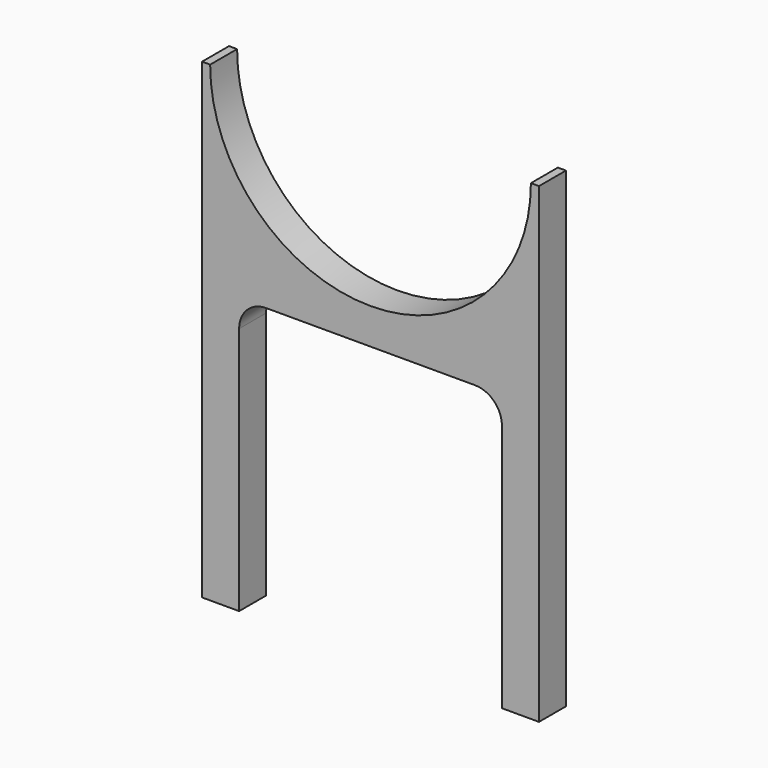
from build123d import *

# Parameters (mm, degrees)
F0_W     = 63.5
F0_H     = 88.9
F1_DEPTH = 6.35
F2_R     = 30.226
F3_DEPTH = 6.351
F4_W     = 49.529999
F4_H     = 51.943
F5_DEPTH = 6.351
F6_R     = 5.08


with BuildPart() as f1:
    # F0 (on Front) → F1 (new body)
    with BuildSketch(Plane.XZ):
        Rectangle(F0_W, F0_H)
    extrude(amount=F1_DEPTH)

    # F2 (on face) → F3 (cut, through all)
    with BuildSketch(Plane.XZ.offset(6.35)):
        with Locations((0, 44.45)):
            Circle(F2_R)
    extrude(amount=-F3_DEPTH, mode=Mode.SUBTRACT)

    # F4 (on face) → F5 (cut, through all)
    with BuildSketch(Plane.XZ.offset(6.35)):
        with Locations((-1e-06, -18.4785)):
            Rectangle(F4_W, F4_H)
    extrude(amount=-F5_DEPTH, mode=Mode.SUBTRACT)

    # F6
    f6_edges = [f1.edges().sort_by_distance(p)[0] for p in [
        (-24.765, -3.175, 7.493),
        (24.764999, -3.175, 7.493),
    ]]
    fillet(f6_edges, radius=F6_R)


solid = f1.part
